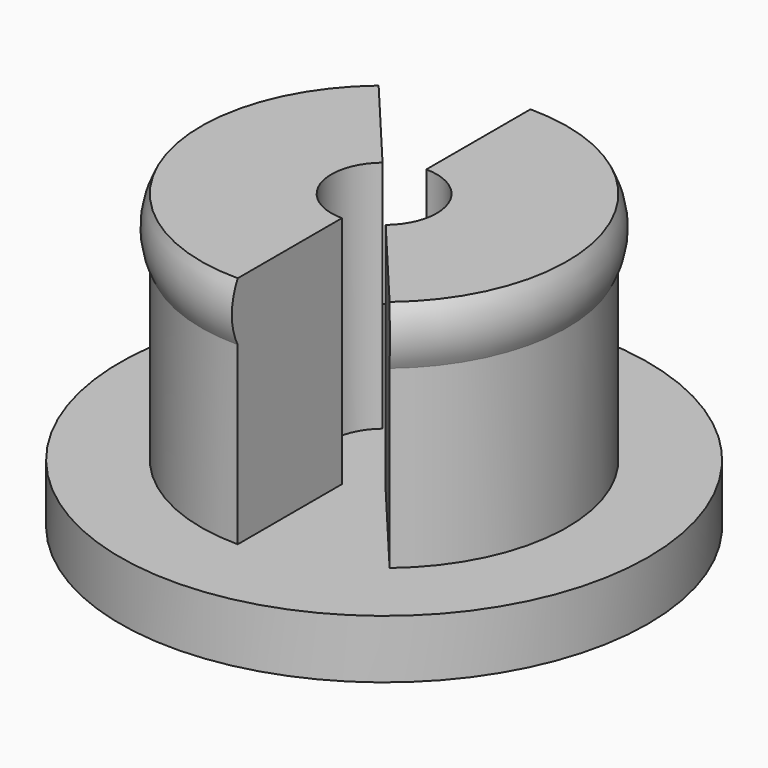
from build123d import *

# Parameters (mm, degrees)
SKETCH016_R           = 9.016071
PAD004_DEPTH          = 2
REVOLUTION003_ANGLE   = -140
POLARPATTERN001_COUNT = 2


with BuildPart() as part:
    # Sketch016 → Pad004 (new body)
    with BuildSketch(Plane.XY):
        Circle(SKETCH016_R)
    extrude(amount=-PAD004_DEPTH)

    # Sketch018 → Revolution003 (revolve)
    with BuildSketch(Plane.YZ):
        with BuildLine():
            Line((1.8, 0), (1.8, 8))
            Line((1.8, 8), (6.25, 8))
            ThreePointArc((6.25, 6), (6.5, 7), (6.25, 8))
            Line((6.25, 6), (6.25, 0))
            Line((6.25, 0), (1.8, 0))
        make_face()
    revolution003 = revolve(axis=Axis((0, 0, 0), (0, 0, 1)), revolution_arc=REVOLUTION003_ANGLE)

    # PolarPattern001: Revolution003 ×2 about axis
    polarpattern001_axis = Axis((0, 0, 0), (0, 0, 1))
    for i in range(1, POLARPATTERN001_COUNT):
        add(revolution003.rotate(polarpattern001_axis, i * 360 / POLARPATTERN001_COUNT))


solid = part.part
